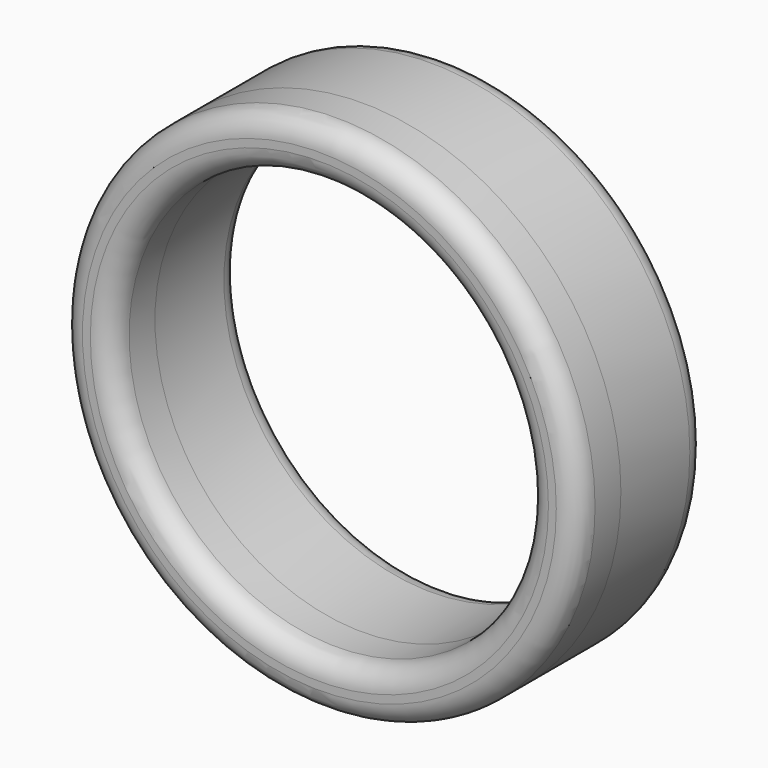
from build123d import *

# Parameters (mm, degrees)
F0_R     = 12.192
F0_R_2   = 9.789627
F1_DEPTH = 5.08
F2_DEPTH = 2.54
F3_R     = 1.016


with BuildPart() as f1:
    # F0 (on Front) → F1 (new body)
    with BuildSketch(Plane.XZ):
        with Locations((-31.946439, 19.858599)):
            Circle(F0_R)
        with Locations((-31.946439, 19.858599)):
            Circle(F0_R_2, mode=Mode.SUBTRACT)
        with Locations((-31.946439, 19.858599)):
            Circle(F0_R)
        with Locations((-31.946439, 19.858599)):
            Circle(F0_R_2, mode=Mode.SUBTRACT)
    extrude(amount=-F1_DEPTH)

    # F0 (on Front) → F2 (join)
    with BuildSketch(Plane.XZ):
        with Locations((-31.946439, 19.858599)):
            Circle(F0_R)
        with Locations((-31.946439, 19.858599)):
            Circle(F0_R_2, mode=Mode.SUBTRACT)
    extrude(amount=F2_DEPTH)

    # F3
    f3_edges = [f1.edges().sort_by_distance(p)[0] for p in [
        (-44.138439, -2.54, 19.858599),
        (-41.736067, -2.54, 19.858599),
        (-41.736067, 5.08, 19.858599),
        (-44.138439, 5.08, 19.858599),
    ]]
    fillet(f3_edges, radius=F3_R)


solid = f1.part
